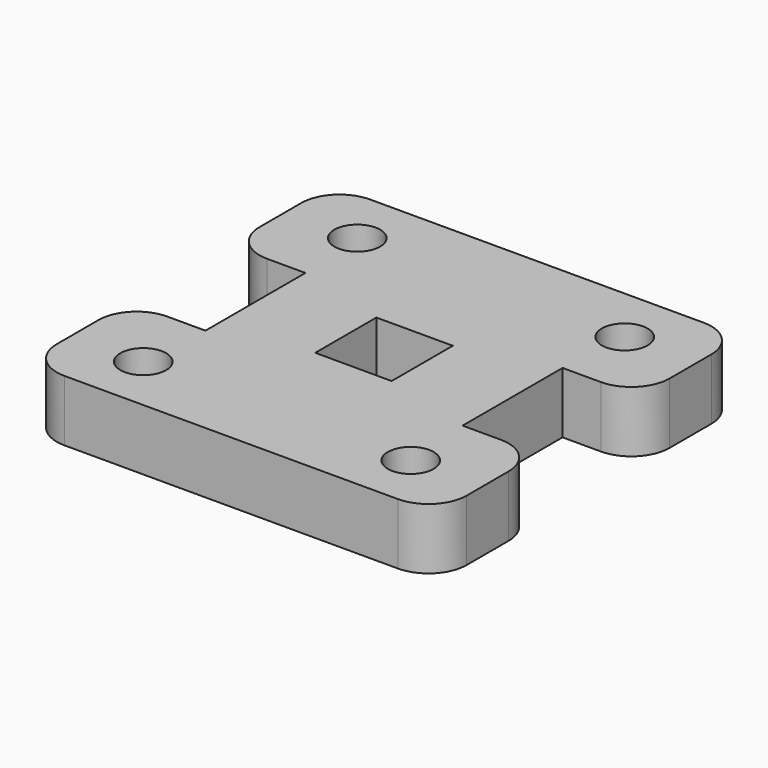
from build123d import *

# Parameters (mm, degrees)
F0_R     = 6
F1_DEPTH = 16


with BuildPart() as f1:
    # F0 (on Top) → F1 (new body)
    with BuildSketch(Plane.XY):
        with BuildLine():
            Line((-33.65, 3.65), (-33.65, -3.65))
            Line((-33.65, -3.65), (-33.65, -16.35))
            Line((-33.65, -16.35), (-43.65, -16.35))
            ThreePointArc((-43.65, -16.35), (-50.721068, -19.278932), (-53.65, -26.35))
            Line((-53.65, -26.35), (-53.65, -40))
            ThreePointArc((-53.65, -40), (-50.721068, -47.071068), (-43.65, -50))
            Line((-43.65, -50), (0, -50))
            Line((0, -50), (43.65, -50))
            ThreePointArc((43.65, -50), (50.721068, -47.071068), (53.65, -40))
            Line((53.65, -40), (53.65, -26.35))
            ThreePointArc((53.65, -26.35), (50.721068, -19.278932), (43.65, -16.35))
            Line((43.65, -16.35), (33.65, -16.35))
            Line((33.65, -16.35), (33.65, -3.65))
            Line((33.65, -3.65), (33.65, 3.65))
            Line((33.65, 3.65), (33.65, 16.35))
            Line((33.65, 16.35), (43.65, 16.35))
            ThreePointArc((43.65, 16.35), (50.721068, 19.278932), (53.65, 26.35))
            Line((53.65, 26.35), (53.65, 40))
            ThreePointArc((53.65, 40), (50.721068, 47.071068), (43.65, 50))
            Line((43.65, 50), (0, 50))
            Line((0, 50), (-43.65, 50))
            ThreePointArc((-43.65, 50), (-50.721068, 47.071068), (-53.65, 40))
            Line((-53.65, 40), (-53.65, 26.35))
            ThreePointArc((-53.65, 26.35), (-50.721068, 19.278932), (-43.65, 16.35))
            Line((-43.65, 16.35), (-33.65, 16.35))
            Line((-33.65, 16.35), (-33.65, 3.65))
        make_face()
        with Locations((-35, -35)):
            Circle(F0_R, mode=Mode.SUBTRACT)
        with Locations((35, -35)):
            Circle(F0_R, mode=Mode.SUBTRACT)
        with Locations((-35, 35)):
            Circle(F0_R, mode=Mode.SUBTRACT)
        Polygon((-10, -10), (-10, 0), (-10, 10), (0, 10), (10, 10), (10, 0), (10, -10), (0, -10), align=None, mode=Mode.SUBTRACT)
        with Locations((35, 35)):
            Circle(F0_R, mode=Mode.SUBTRACT)
    extrude(amount=F1_DEPTH)


solid = f1.part
